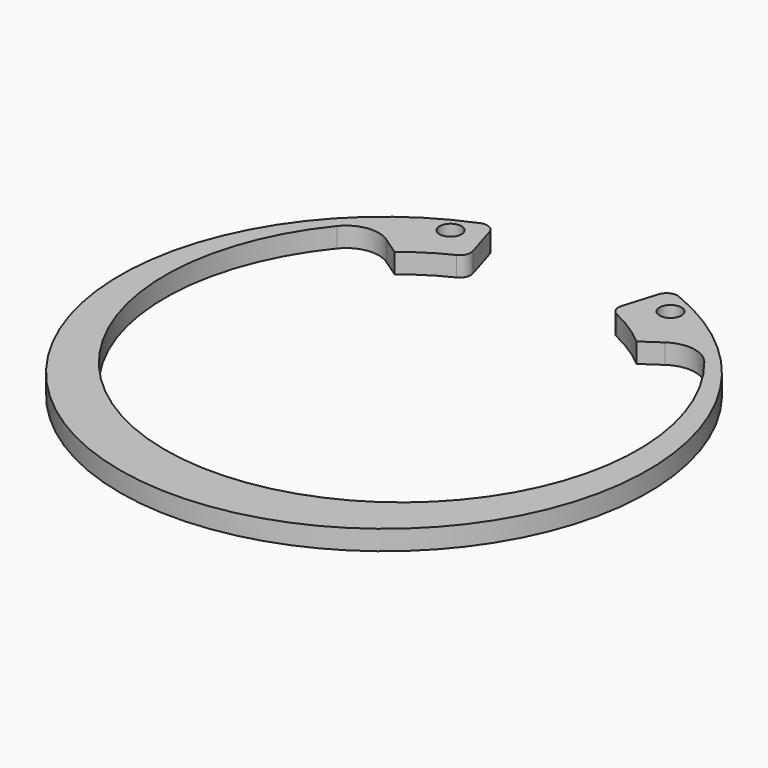
from build123d import *

# Parameters (mm, degrees)
F0_R     = 1
F1_DEPTH = 1.8


with BuildPart() as f1:
    # F0 (on Top) → F1 (new body)
    with BuildSketch(Plane.XY):
        with BuildLine():
            ThreePointArc((-7.688299, 21.605216), (-8.214587, 22.216263), (-9.020679, 22.240219))
            ThreePointArc((-9.020679, 22.240219), (0, -24), (9.020679, 22.240219))
            ThreePointArc((9.020679, 22.240219), (8.214587, 22.216263), (7.688299, 21.605216))
            Line((7.688299, 21.605216), (6.758089, 18.554662))
            ThreePointArc((6.758089, 18.554662), (6.799873, 17.858935), (7.286018, 17.35949))
            ThreePointArc((7.286018, 17.35949), (9.221292, 16.281729), (11, 14.961481))
            Line((11, 14.961481), (12.678411, 16.114766))
            ThreePointArc((12.678411, 16.114766), (14.808028, 16.611141), (16.708841, 15.530138))
            ThreePointArc((16.708841, 15.530138), (0, -19.5), (-16.708841, 15.530138))
            ThreePointArc((-16.708841, 15.530138), (-14.808028, 16.611141), (-12.678411, 16.114766))
            Line((-12.678411, 16.114766), (-11, 14.961481))
            ThreePointArc((-11, 14.961481), (-9.221292, 16.281729), (-7.286018, 17.35949))
            ThreePointArc((-7.286018, 17.35949), (-6.799873, 17.858935), (-6.758089, 18.554662))
            Line((-6.758089, 18.554662), (-7.688299, 21.605216))
        make_face()
        with Locations((-10, 20.070599)):
            Circle(F0_R, mode=Mode.SUBTRACT)
        with Locations((10, 20.070599)):
            Circle(F0_R, mode=Mode.SUBTRACT)
    extrude(amount=F1_DEPTH)


solid = f1.part
